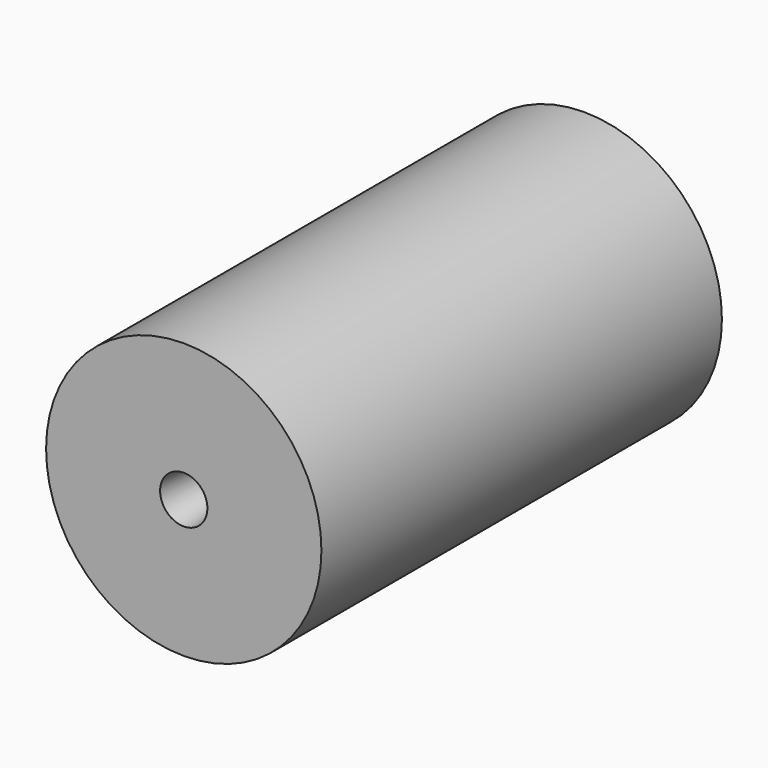
from build123d import *


with BuildPart() as f2:
    # F0 (on Right) → F2 (revolve)
    with BuildSketch(Plane.YZ):
        with BuildLine():
            Line((-58.7521158159, 33.1422165036), (-58.7521158159, 5.6910882704))
            add(Edge.make_bspline(
                [(-58.7521158159, 5.6910882704), (-50.5725188467, 4.7430531442), (-34.1239787518, 2.8366274556), (-12.3622890797, 16.0490658107), (9.1929930699, 29.3530632258), (44.0528070035, 2.45055982), (56.6437917034, 10.1085885939), (61.7650412023, 13.223410584)],
                knots=[0, 0, 0, 0, 0.1960236804, 0.3941885376, 0.5840269995, 0.8308073935, 1, 1, 1, 1], degree=3))
            Line((61.7650412023, 13.223410584), (61.7650412023, 33.1422165036))
            Line((61.7650412023, 33.1422165036), (-58.7521158159, 33.1422165036))
        make_face()
    revolve(axis=Axis((0, 5.021546036, 0), (0, 1, 0)))


solid = f2.part
